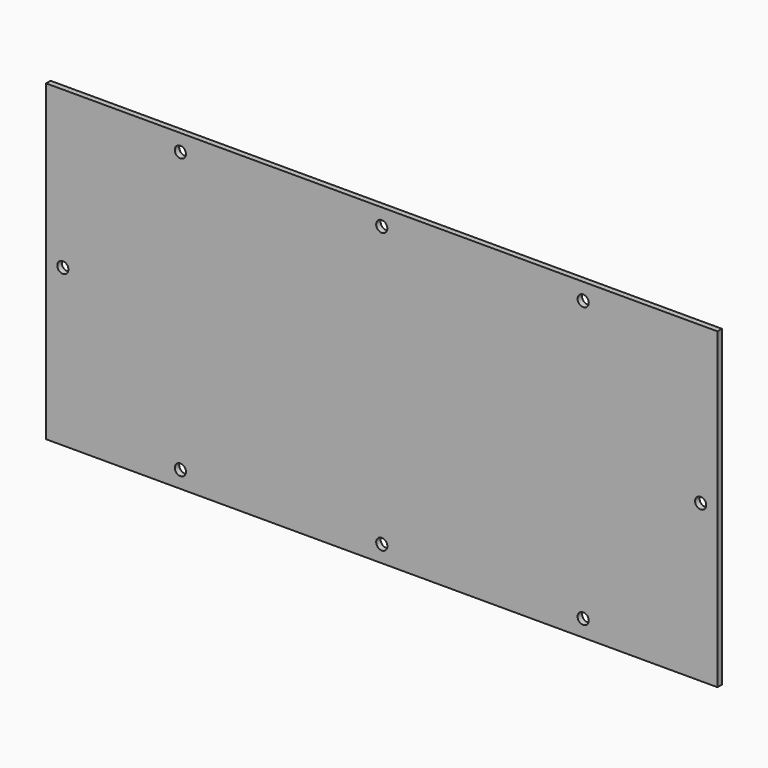
from build123d import *

# Parameters (mm, degrees)
F0_W     = 381
F0_H     = 177.8
F0_R     = 3.175
F1_DEPTH = 3.175


with BuildPart() as f1:
    # F0 (on Front) → F1 (new body)
    with BuildSketch(Plane.XZ):
        Rectangle(F0_W, F0_H)
        with Locations((-114.3, -79.375)):
            Circle(F0_R, mode=Mode.SUBTRACT)
        with Locations((0, -79.375)):
            Circle(F0_R, mode=Mode.SUBTRACT)
        with Locations((114.3, -79.375)):
            Circle(F0_R, mode=Mode.SUBTRACT)
        with Locations((-180.975, 0)):
            Circle(F0_R, mode=Mode.SUBTRACT)
        with Locations((-114.3, 79.375)):
            Circle(F0_R, mode=Mode.SUBTRACT)
        with Locations((180.975, 0)):
            Circle(F0_R, mode=Mode.SUBTRACT)
        with Locations((0, 79.375)):
            Circle(F0_R, mode=Mode.SUBTRACT)
        with Locations((114.3, 79.375)):
            Circle(F0_R, mode=Mode.SUBTRACT)
    extrude(amount=F1_DEPTH)


solid = f1.part
